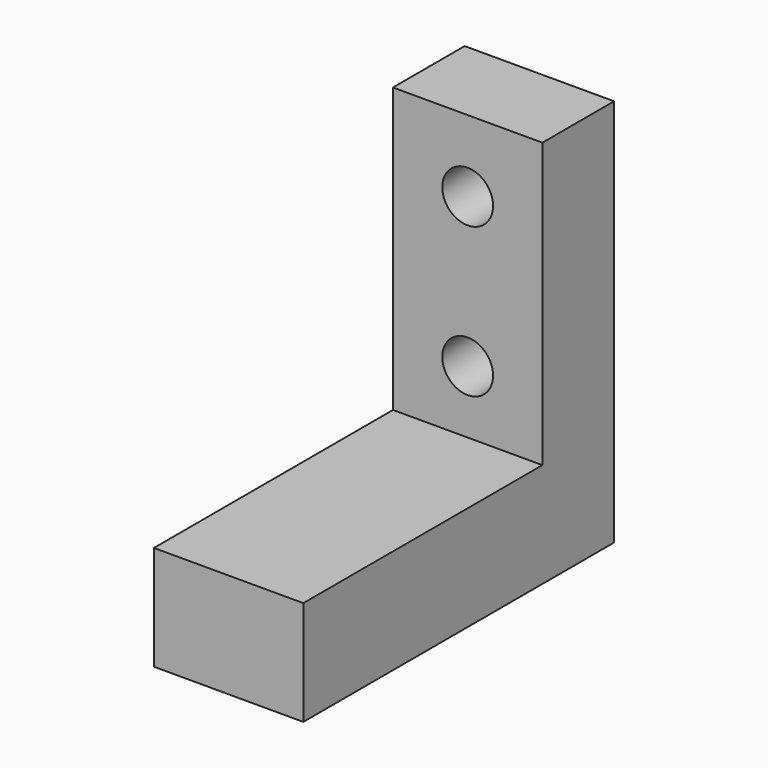
from build123d import *

# Parameters (mm, degrees)
PAD038_DEPTH    = 10
SKETCH109_R     = 2.3
POCKET034_DEPTH = 5.5
SKETCH110_R     = 1.7
HOLE021_DEPTH   = 25


with BuildPart() as part:
    # Sketch108 → Pad038 (new body)
    with BuildSketch(Plane.YZ):
        Polygon((106, 198.8), (106, 205.8), (126, 205.8), (126, 224.8), (132, 224.8), (132, 198.8), align=None)
    extrude(amount=PAD038_DEPTH)

    # Sketch109 (on Face6 of Pad038) → Pocket034 (cut)
    with BuildSketch(Plane.YX.offset(-198.8)):
        with Locations((128, 5)):
            Circle(SKETCH109_R)
        with Locations((110, 5)):
            Circle(SKETCH109_R)
    extrude(amount=-POCKET034_DEPTH, mode=Mode.SUBTRACT)

    # Sketch110 (on Face9 of Pocket034) → Hole021 (cut)
    with BuildSketch(Plane(origin=(0, 126, 0), x_dir=(0, 0, -1), z_dir=(0, -1, 0))):
        with Locations((-220, 5)):
            Circle(SKETCH110_R)
        with Locations((-210, 5)):
            Circle(SKETCH110_R)
    extrude(amount=-HOLE021_DEPTH, mode=Mode.SUBTRACT)


with BuildPart() as part_1:
    # Body015 placement: moved
    add(part.part.moved(Location((-39, 0, 0))))


solid = part_1.part
